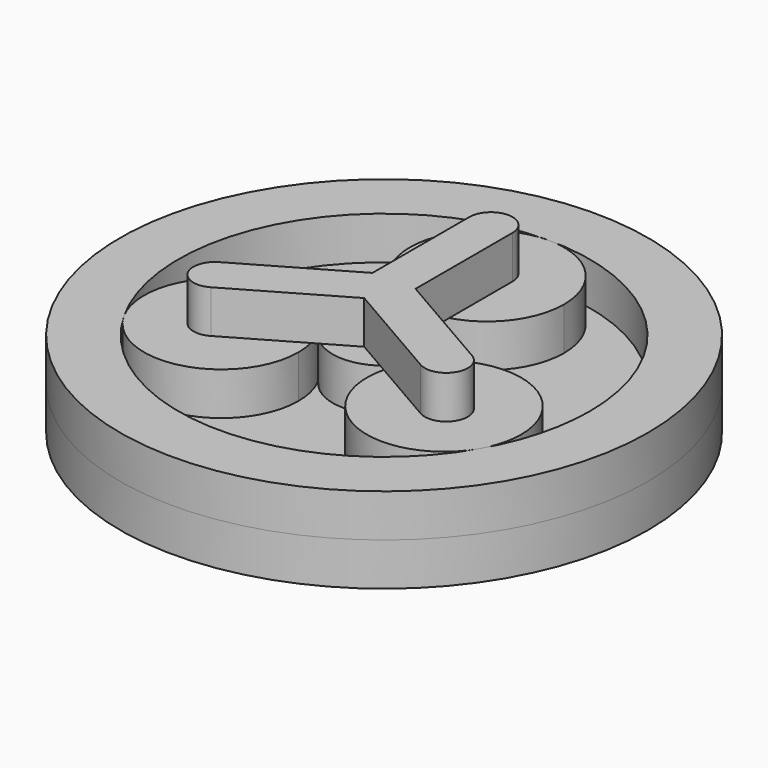
from build123d import *

# Parameters (mm, degrees)
F1_DEPTH = 5
F0_R     = 30.7894498578
F3_DEPTH = 5
F4_R     = 30.7894498578
F4_R_2   = 4.2112716429
F5_DEPTH = 5


with BuildPart() as f1:
    # F0 (on Top) → F1 (new body)
    with BuildSketch(Plane.XY):
        with BuildLine():
            ThreePointArc((0, 24), (-9, 14.9999999913), (1.75e-08, 6))
            ThreePointArc((1.75e-08, 6), (6.3639610369, 8.6360389755), (9, 15))
            ThreePointArc((9, 15), (6.3639610307, 21.3639610307), (0, 24))
        make_face()
    extrude(amount=F1_DEPTH)


with BuildPart() as f1b:
    # F0 (on Top) → F1, piece 2 (new body)
    with BuildSketch(Plane.XY):
        with BuildLine():
            ThreePointArc((5.1961525106, -2.9999998477), (5.7955549805, -1.5529141857), (6, 0))
            ThreePointArc((6, 0), (4.2426406933, 4.2426406809), (1.75e-08, 6))
            ThreePointArc((1.75e-08, 6), (-5.1961524093, 3.0000000232), (-5.1961524408, -2.9999999687))
            ThreePointArc((-5.1961524408, -2.9999999687), (6.99e-08, -6), (5.1961525106, -2.9999998477))
        make_face()
    extrude(amount=F1_DEPTH)


with BuildPart() as f1c:
    # F0 (on Top) → F1, piece 3 (new body)
    with BuildSketch(Plane.XY):
        Circle(F0_R)
        with BuildLine():
            ThreePointArc((-20.7846098286, -11.9999997614), (-20.7846096219, 12.0000001193), (0, 24))
            ThreePointArc((0, 24), (16.9705627485, 16.9705627485), (24, 0))
            ThreePointArc((24, 0), (23.1822198145, -6.2116571438), (20.7846096273, -12.0000001101))
            ThreePointArc((20.7846096273, -12.0000001101), (-2.013e-07, -24), (-20.7846098286, -11.9999997614))
        make_face(mode=Mode.SUBTRACT)
    extrude(amount=F1_DEPTH)


with BuildPart() as f1d:
    # F0 (on Top) → F1, piece 4 (new body)
    with BuildSketch(Plane.XY):
        with BuildLine():
            ThreePointArc((-3.9903810568, -7.5), (-4.2970486248, -5.1706285766), (-5.1961524408, -2.9999999687))
            ThreePointArc((-5.1961524408, -2.9999999687), (-17.4903809531, 0.2942286939), (-20.7846098286, -11.9999997614))
            ThreePointArc((-20.7846098286, -11.9999997614), (-10.6610097839, -16.1933324723), (-3.9903810568, -7.5))
        make_face()
    extrude(amount=F1_DEPTH)


with BuildPart() as f1e:
    # F0 (on Top) → F1, piece 5 (new body)
    with BuildSketch(Plane.XY):
        with BuildLine():
            ThreePointArc((21.9903810568, -7.5), (15.3197525476, 1.1933324138), (5.1961525106, -2.9999998477))
            ThreePointArc((5.1961525106, -2.9999998477), (8.4903809256, -15.2942285583), (20.7846096273, -12.0000001101))
            ThreePointArc((20.7846096273, -12.0000001101), (21.6837134769, -9.8293714673), (21.9903810568, -7.5))
        make_face()
    extrude(amount=F1_DEPTH)


with BuildPart() as f3:
    # F2 (on face) → F3 (new body)
    with BuildSketch(Plane.XY.offset(5)):
        with BuildLine():
            Line((-2.5105387635, 15.5814373866), (-2.5105387635, 1.4494602309))
            Line((-2.5105387635, 1.4494602309), (-14.749189986, -5.6165283469))
            ThreePointArc((-14.749189986, -5.6165283469), (-15.6681109506, -9.045988075), (-12.2386512225, -9.9649090397))
            Line((-12.2386512225, -9.9649090397), (0, -2.8989204618))
            Line((0, -2.8989204618), (12.2386512225, -9.9649090397))
            ThreePointArc((12.2386512225, -9.9649090397), (15.6681109506, -9.045988075), (14.749189986, -5.6165283469))
            Line((14.749189986, -5.6165283469), (2.5105387635, 1.4494602309))
            Line((2.5105387635, 1.4494602309), (2.5105387635, 15.5814373866))
            ThreePointArc((2.5105387635, 15.5814373866), (0, 18.0919761501), (-2.5105387635, 15.5814373866))
        make_face()
    extrude(amount=F3_DEPTH)


with BuildPart() as f5:
    # F4 (on face) → F5 (new body)
    with BuildSketch(Plane.XY):
        Circle(F4_R)
        Circle(F4_R_2, mode=Mode.SUBTRACT)
    extrude(amount=-F5_DEPTH)


solid = Compound([f1.part, f1b.part, f1c.part, f1d.part, f1e.part, f3.part, f5.part])
